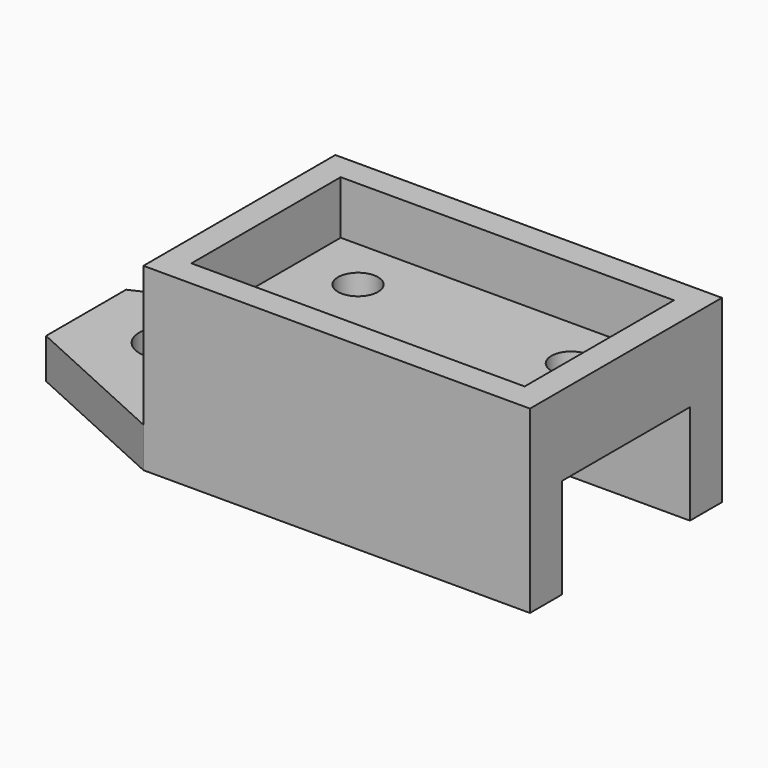
from build123d import *

# Parameters (mm, degrees)
F0_W     = 14.5
F0_H     = 9
F0_W_2   = 12.5
F0_H_2   = 7
F1_DEPTH = 2
F2_DEPTH = 1
F3_R     = 0.75
F4_DEPTH = 3.001
F5_W     = 14.5
F5_H     = 1.5
F6_DEPTH = 3.75
F7_R     = 1.05
F7_W     = 2
F7_H     = 9
F8_DEPTH = 1.5


with BuildPart() as f1:
    # F0 (on Top) → F1 (new body)
    with BuildSketch(Plane.XY):
        Rectangle(F0_W, F0_H)
        Rectangle(F0_W_2, F0_H_2, mode=Mode.SUBTRACT)
    extrude(amount=F1_DEPTH)

    # F0 (on Top) → F2 (join)
    with BuildSketch(Plane.XY):
        Rectangle(F0_W, F0_H)
        Rectangle(F0_W_2, F0_H_2, mode=Mode.SUBTRACT)
        Rectangle(F0_W_2, F0_H_2)
    extrude(amount=-F2_DEPTH)

    # F3 (on face) → F4 (cut, through all)
    with BuildSketch(Plane(origin=(0, 0, -1), x_dir=(1, 0, 0), z_dir=(0, 0, -1))):
        with Locations((-4, 1.5)):
            Circle(F3_R)
        with Locations((4, 1.5)):
            Circle(F3_R)
        with Locations((4, -1.5)):
            Circle(F3_R)
        with Locations((-4, -1.5)):
            Circle(F3_R)
    extrude(amount=-F4_DEPTH, mode=Mode.SUBTRACT)

    # F5 (on face) → F6 (join)
    with BuildSketch(Plane(origin=(0, 0, -1), x_dir=(1, 0, 0), z_dir=(0, 0, -1))):
        with Locations((0, 3.75)):
            Rectangle(F5_W, F5_H)
        with Locations((0, -3.75)):
            Rectangle(F5_W, F5_H)
    extrude(amount=F6_DEPTH)

    # F7 (on face) → F8 (join)
    with BuildSketch(Plane(origin=(0, 0, -4.75), x_dir=(1, 0, 0), z_dir=(0, 0, -1))):
        Polygon((-13, -1.8759706765), (-7.25, -4.5), (-7.25, 4.5), (-13, 1.8759706765), align=None)
        with Locations((-9.95, 0)):
            Circle(F7_R, mode=Mode.SUBTRACT)
        with Locations((-6.25, 0)):
            Rectangle(F7_W, F7_H)
    extrude(amount=-F8_DEPTH)


solid = f1.part
